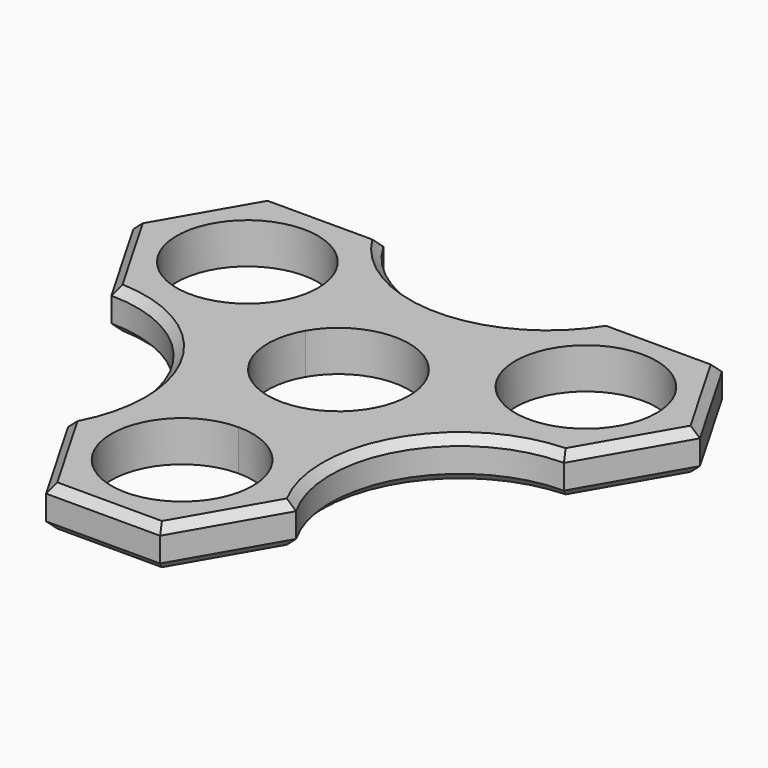
from build123d import *

# Parameters (mm, degrees)
F1_DEPTH = 6.35
F2_SIZE  = 1.27
F3_SIZE  = 1.27


with BuildPart() as f1:
    # F0 (on Top) → F1 (new body)
    with BuildSketch(Plane.XY):
        with BuildLine():
            ThreePointArc((9.535719, 5.50545), (10.635713, 2.849831), (11.0109, 0))
            ThreePointArc((11.0109, 0), (7.785882, -7.785882), (0, -11.0109))
            Line((0, -11.0109), (0, -15.082068))
            Line((0, -15.082068), (8.89, -15.082068))
            Line((8.89, -15.082068), (17.78, -30.48))
            ThreePointArc((17.78, -30.48), (17.78, -10.265288), (35.286454, -0.157932))
            Line((35.286454, -0.157932), (17.506454, -0.157932))
            Line((17.506454, -0.157932), (13.061454, 7.541034))
            Line((13.061454, 7.541034), (9.535719, 5.50545))
        make_face()
        with BuildLine():
            ThreePointArc((-9.535719, 5.50545), (0, 11.0109), (9.535719, 5.50545))
            Line((9.535719, 5.50545), (13.061454, 7.541034))
            Line((13.061454, 7.541034), (8.616454, 15.24))
            Line((8.616454, 15.24), (17.506454, 30.637932))
            ThreePointArc((17.506454, 30.637932), (0, 20.530576), (-17.506454, 30.637932))
            Line((-17.506454, 30.637932), (-8.616454, 15.24))
            Line((-8.616454, 15.24), (-13.061454, 7.541034))
            Line((-13.061454, 7.541034), (-9.535719, 5.50545))
        make_face()
        with BuildLine():
            Line((0, -15.082068), (0, -11.0109))
            ThreePointArc((0, -11.0109), (-9.535719, -5.50545), (-9.535719, 5.50545))
            Line((-9.535719, 5.50545), (-13.061454, 7.541034))
            Line((-13.061454, 7.541034), (-17.506454, -0.157932))
            Line((-17.506454, -0.157932), (-35.286454, -0.157932))
            ThreePointArc((-35.286454, -0.157932), (-17.78, -10.265288), (-17.78, -30.48))
            Line((-17.78, -30.48), (-8.89, -15.082068))
            Line((-8.89, -15.082068), (0, -15.082068))
        make_face()
        with BuildLine():
            ThreePointArc((37.407354, 15.24), (23.546624, 25.875713), (16.860735, 9.73455))
            ThreePointArc((16.860735, 9.73455), (29.246285, 4.604287), (37.407354, 15.24))
        make_face()
        Polygon((8.616454, 15.24), (13.061454, 7.541034), (17.506454, -0.157932), (35.286454, -0.157932), (44.176454, 15.24), (35.286454, 30.637932), (17.506454, 30.637932), align=None)
        with BuildLine():
            ThreePointArc((37.407354, 15.24), (29.246285, 4.604287), (16.860735, 9.73455))
            ThreePointArc((16.860735, 9.73455), (23.546624, 25.875713), (37.407354, 15.24))
        make_face(mode=Mode.SUBTRACT)
        with BuildLine():
            ThreePointArc((11.0109, -30.48), (7.785882, -22.694118), (0, -19.4691))
            ThreePointArc((0, -19.4691), (-7.785882, -38.265882), (11.0109, -30.48))
        make_face()
        Polygon((8.89, -15.082068), (0, -15.082068), (-8.89, -15.082068), (-17.78, -30.48), (-8.89, -45.877932), (8.89, -45.877932), (17.78, -30.48), align=None)
        with BuildLine():
            ThreePointArc((11.0109, -30.48), (-7.785882, -38.265882), (0, -19.4691))
            ThreePointArc((0, -19.4691), (7.785882, -22.694118), (11.0109, -30.48))
        make_face(mode=Mode.SUBTRACT)
        with BuildLine():
            ThreePointArc((-15.385554, 15.24), (-37.032167, 18.089831), (-16.860735, 9.73455))
            ThreePointArc((-16.860735, 9.73455), (-15.760742, 12.390169), (-15.385554, 15.24))
        make_face()
        Polygon((-17.506454, -0.157932), (-13.061454, 7.541034), (-8.616454, 15.24), (-17.506454, 30.637932), (-35.286454, 30.637932), (-44.176454, 15.24), (-35.286454, -0.157932), align=None)
        with BuildLine():
            ThreePointArc((-15.385554, 15.24), (-15.760742, 12.390169), (-16.860735, 9.73455))
            ThreePointArc((-16.860735, 9.73455), (-37.032167, 18.089831), (-15.385554, 15.24))
        make_face(mode=Mode.SUBTRACT)
    extrude(amount=F1_DEPTH)

    # F2
    f2_edges = [f1.edges().sort_by_distance(p)[0] for p in [
        (-26.396454, 30.637932, 6.35),
        (0, 20.530576, 6.35),
        (26.396454, 30.637932, 6.35),
        (39.731454, 22.938966, 6.35),
        (39.731454, 7.541034, 6.35),
        (17.78, -10.265288, 6.35),
        (13.335, -38.178966, 6.35),
        (0, -45.877932, 6.35),
        (-13.335, -38.178966, 6.35),
        (-17.78, -10.265288, 6.35),
        (-39.731454, 7.541034, 6.35),
        (-39.731454, 22.938966, 6.35),
    ]]
    chamfer(f2_edges, length=F2_SIZE)

    # F3
    f3_edges = [f1.edges().sort_by_distance(p)[0] for p in [
        (0, -45.877932, 0),
        (13.335, -38.178966, 0),
        (17.78, -10.265288, 0),
        (39.731454, 7.541034, 0),
        (39.731454, 22.938966, 0),
        (26.396454, 30.637932, 0),
        (0, 20.530576, 0),
        (-26.396454, 30.637932, 0),
        (-39.731454, 22.938966, 0),
        (-39.731454, 7.541034, 0),
        (-17.78, -10.265288, 0),
        (-13.335, -38.178966, 0),
    ]]
    chamfer(f3_edges, length=F3_SIZE)


solid = f1.part
